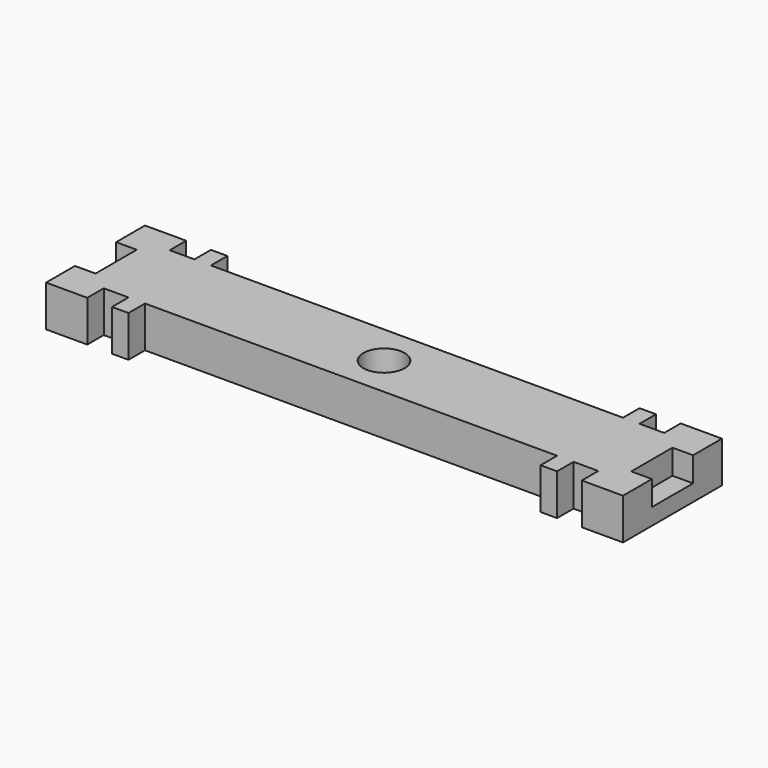
from build123d import *

# Parameters (mm, degrees)
F0_R     = 5
F1_DEPTH = 10
F2_W     = 10
F2_H     = 12.5
F3_DEPTH = 6


with BuildPart() as f1:
    # F0 (on Top) → F1 (new body)
    with BuildSketch(Plane.XY):
        Polygon((-50, -10), (50, -10), (50, -15), (54, -15), (54, -10), (60, -10), (60, -15), (70, -15), (70, 0), (70, 15), (60, 15), (60, 10), (54, 10), (54, 15), (50, 15), (50, 10), (-50, 10), (-50, 15), (-54, 15), (-54, 10), (-60, 10), (-60, 15), (-70, 15), (-70, 0), (-70, -15), (-60, -15), (-60, -10), (-54, -10), (-54, -15), (-50, -15), align=None)
        Circle(F0_R, mode=Mode.SUBTRACT)
    extrude(amount=F1_DEPTH)

    # F2 (on face) → F3 (cut)
    with BuildSketch(Plane.XY.offset(10)):
        with Locations((70, 0)):
            Rectangle(F2_W, F2_H)
        with Locations((-70, 0)):
            Rectangle(F2_W, F2_H)
    extrude(amount=-F3_DEPTH, mode=Mode.SUBTRACT)


solid = f1.part
